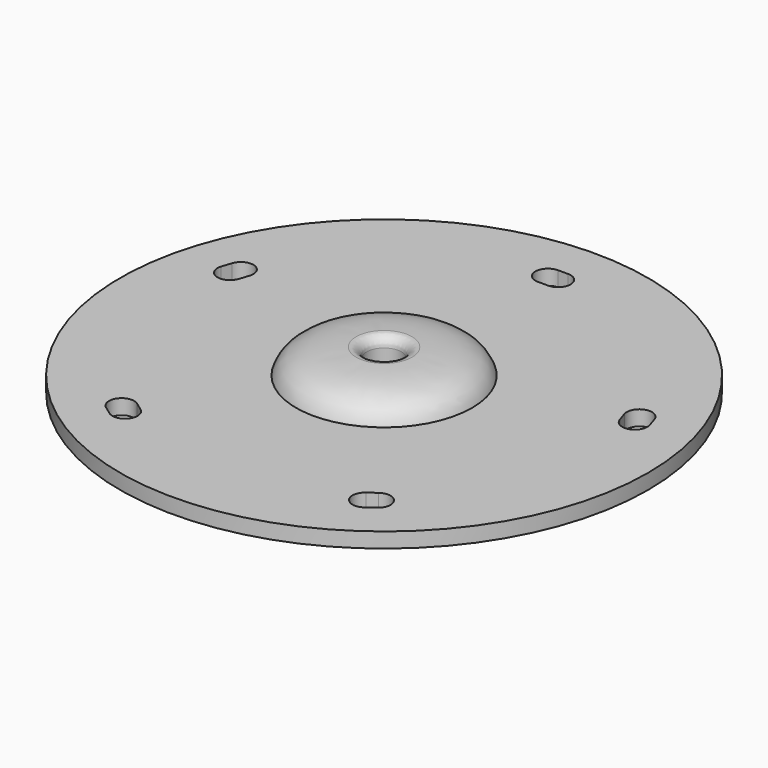
from build123d import *

# Parameters (mm, degrees)
F0_R     = 52.5
F0_R_2   = 17.5
F0_R_3   = 3.5
F1_DEPTH = 3
F4_R     = 2


with BuildPart() as f1:
    # F0 (on Top) → F1 (new body)
    with BuildSketch(Plane.XY):
        Circle(F0_R)
        with BuildLine():
            ThreePointArc((-22.4085, -32.543957), (-21.855421, -36.035962), (-25.347427, -36.589042))
            Line((-25.347427, -36.589042), (-26.965461, -35.413471))
            ThreePointArc((-26.965461, -35.413471), (-27.51854, -31.921465), (-24.026534, -31.368386))
            Line((-24.026534, -31.368386), (-22.4085, -32.543957))
        make_face(mode=Mode.SUBTRACT)
        with BuildLine():
            ThreePointArc((24.026534, -31.368386), (27.51854, -31.921465), (26.965461, -35.413471))
            Line((26.965461, -35.413471), (25.347427, -36.589042))
            ThreePointArc((25.347427, -36.589042), (21.855421, -36.035962), (22.4085, -32.543957))
            Line((22.4085, -32.543957), (24.026534, -31.368386))
        make_face(mode=Mode.SUBTRACT)
        with BuildLine():
            ThreePointArc((-37.875749, 11.255115), (-41.025933, 9.650016), (-42.631032, 12.8002))
            Line((-42.631032, 12.8002), (-42.012998, 14.702313))
            ThreePointArc((-42.012998, 14.702313), (-38.862814, 16.307412), (-37.257715, 13.157228))
            Line((-37.257715, 13.157228), (-37.875749, 11.255115))
        make_face(mode=Mode.SUBTRACT)
        Circle(F0_R_2, mode=Mode.SUBTRACT)
        with BuildLine():
            ThreePointArc((37.257715, 13.157228), (38.862814, 16.307412), (42.012998, 14.702313))
            Line((42.012998, 14.702313), (42.631032, 12.8002))
            ThreePointArc((42.631032, 12.8002), (41.025933, 9.650016), (37.875749, 11.255115))
            Line((37.875749, 11.255115), (37.257715, 13.157228))
        make_face(mode=Mode.SUBTRACT)
        with BuildLine():
            ThreePointArc((-1, 39.5), (-3.5, 42), (-1, 44.5))
            Line((-1, 44.5), (1, 44.5))
            ThreePointArc((1, 44.5), (3.5, 42), (1, 39.5))
            Line((1, 39.5), (-1, 39.5))
        make_face(mode=Mode.SUBTRACT)
        Circle(F0_R_2)
        Circle(F0_R_3, mode=Mode.SUBTRACT)
    extrude(amount=-F1_DEPTH)

    # F2 (on Front) → F3 (revolve)
    with BuildSketch(Plane.XZ):
        with BuildLine():
            Line((3.5, 5), (3.5, 0))
            Line((3.5, 0), (17.5, 0))
            add(Edge.make_bspline(
                [(3.5, 5), (12.593206, 5), (16.342813, 3.758031), (17.5, 0)],
                knots=[0, 0, 0, 0, 14.866069, 14.866069, 14.866069, 14.866069], degree=3))
        make_face()
    revolve(axis=Axis((0, 0, 2.5), (0, 0, -1)))

    # F4
    f4_edges = [f1.edges().sort_by_distance(p)[0] for p in [
        (-3.5, 0, 5),
    ]]
    fillet(f4_edges, radius=F4_R)


solid = f1.part
